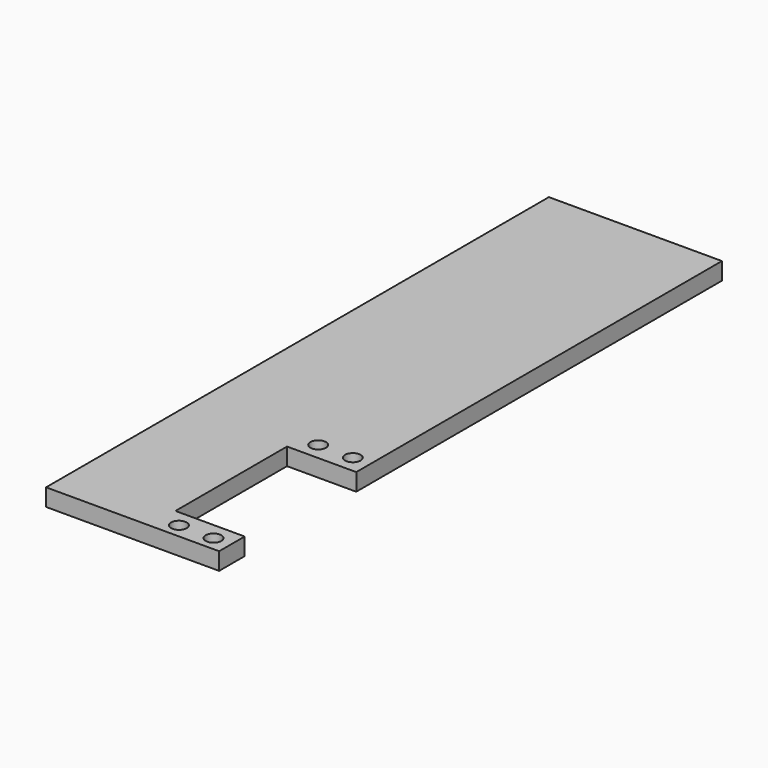
from build123d import *

# Parameters (mm, degrees)
F0_W     = 50
F0_H     = 181.58
F1_DEPTH = 5
F2_W     = 20
F2_H     = 40.3
F2_R     = 2.25
F3_DEPTH = 25


with BuildPart() as f1:
    # F0 (on Top) → F1 (new body)
    with BuildSketch(Plane.XY):
        Rectangle(F0_W, F0_H)
    extrude(amount=F1_DEPTH)

    # F2 (on face) → F3 (cut)
    with BuildSketch(Plane.XY.offset(5)):
        with Locations((15, -61.416438)):
            Rectangle(F2_W, F2_H)
        with Locations((10, -36.266438)):
            Circle(F2_R)
        with Locations((20, -36.266438)):
            Circle(F2_R)
        with Locations((20, -86.566438)):
            Circle(F2_R)
        with Locations((10, -86.566438)):
            Circle(F2_R)
    extrude(amount=-F3_DEPTH, mode=Mode.SUBTRACT)


solid = f1.part
